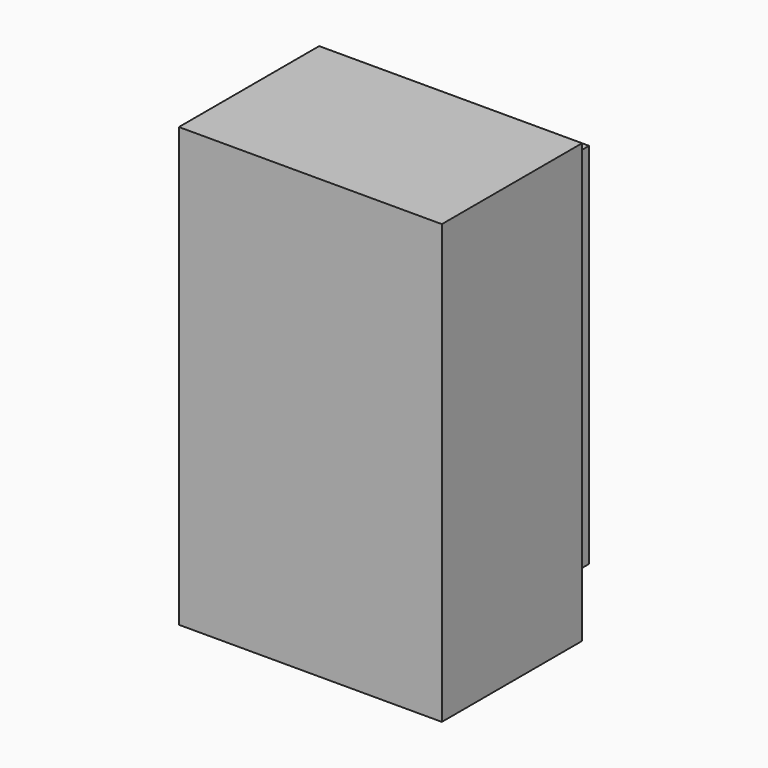
from build123d import *

# Parameters (mm, degrees)
BOX013_W     = 11
BOX013_H     = 7
BOX013_DEPTH = 21
BOX012_W     = 15
BOX012_H     = 10
BOX012_DEPTH = 25


with BuildPart() as box013:
    # Box013 → Box013 (new body)
    with BuildSketch(Plane(origin=(227, 236, 227), x_dir=(1, 0, 0), z_dir=(0, 0, 1))):
        with Locations((5.5, 3.5)):
            Rectangle(BOX013_W, BOX013_H)
    extrude(amount=BOX013_DEPTH)


with BuildPart() as fan_switch:
    # Box012 → Box012 (new body)
    with BuildSketch(Plane(origin=(225, 230, 225), x_dir=(1, 0, 0), z_dir=(0, 0, 1))):
        with Locations((7.5, 5)):
            Rectangle(BOX012_W, BOX012_H)
    extrude(amount=BOX012_DEPTH)

    # Fusion003: union Box013
    add(box013.part)


solid = fan_switch.part
